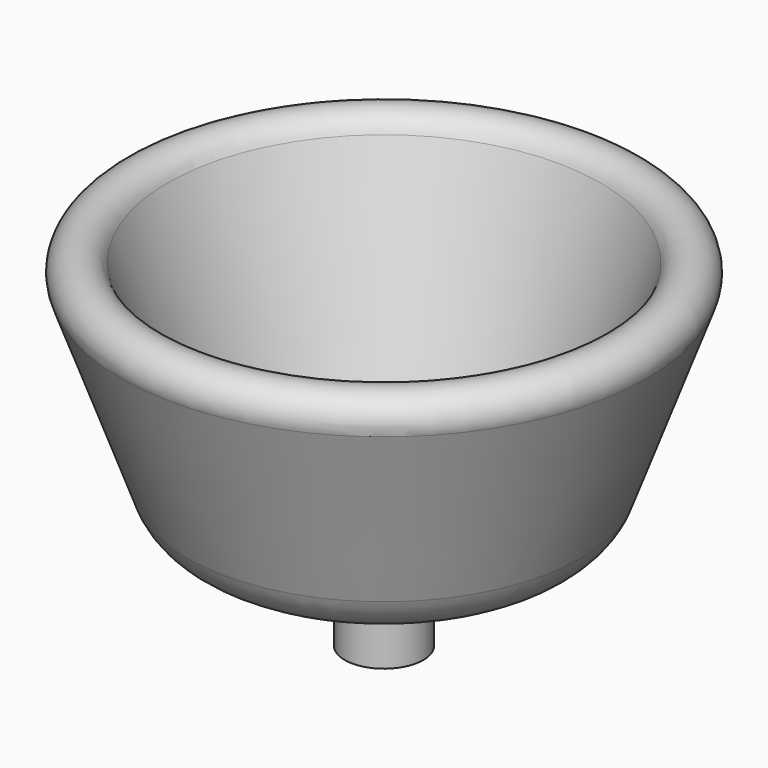
from build123d import *

# Parameters (mm, degrees)
F2_R     = 14
F2_R_2   = 12
F3_DEPTH = 30
F2_R_3   = 10
F4_DEPTH = 30


with BuildPart() as f1:
    # F0 (on Front) → F1 (revolve)
    with BuildSketch(Plane.XZ):
        with BuildLine():
            Line((0, 15), (0, 0))
            Line((0, 0), (41.498962, 0))
            ThreePointArc((41.498962, 0), (52.970491, 3.616959), (60.292815, 13.159597))
            Line((60.292815, 13.159597), (80.229376, 67.934849))
            ThreePointArc((80.229376, 67.934849), (75.746832, 77.547695), (66.133987, 73.065151))
            Line((66.133987, 73.065151), (45, 15))
            Line((45, 15), (0, 15))
        make_face()
    revolve(axis=Axis((0, 0, 7.5), (0, 0, -1)))

    # F2 (on Top) → F3 (join)
    with BuildSketch(Plane.XY):
        Circle(F2_R)
        Circle(F2_R_2, mode=Mode.SUBTRACT)
    extrude(amount=F3_DEPTH)

    # F2 (on Top) → F4 (join)
    with BuildSketch(Plane.XY):
        Circle(F2_R_2)
        Circle(F2_R_3, mode=Mode.SUBTRACT)
    extrude(amount=-F4_DEPTH)


solid = f1.part
